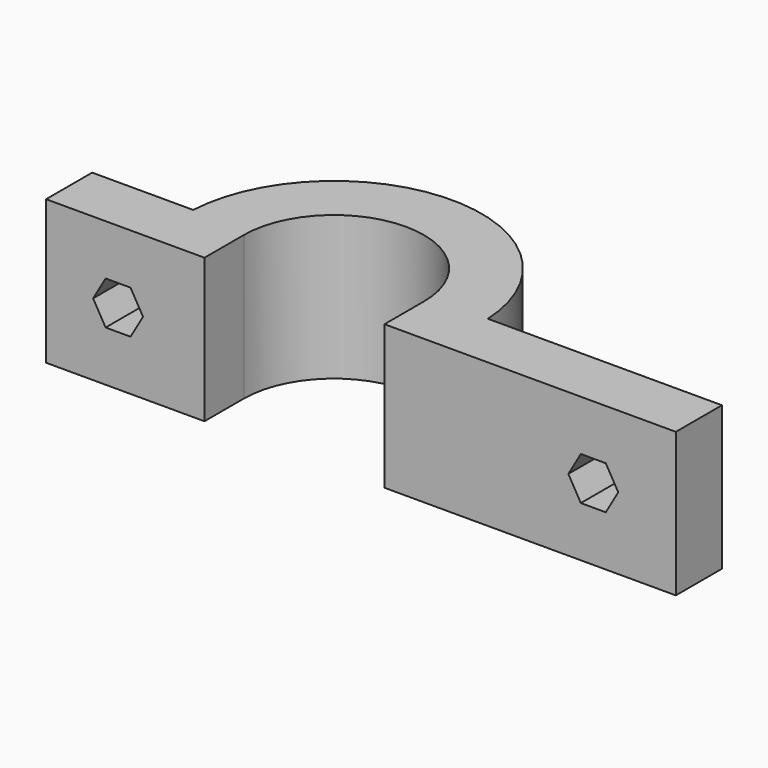
from build123d import *

# Parameters (mm, degrees)
F1_DEPTH = 10
F3_DEPTH = 13.6785106988
F4_DEPTH = 3.268


with BuildPart() as f1:
    # F0 (on Top) → F1 (new body)
    with BuildSketch(Plane.XY):
        with BuildLine():
            Line((14.6115271971, -9.8928403326), (14.6115271971, -13.3118403326))
            Line((14.6115271971, -13.3118403326), (38.1115271971, -13.3118403326))
            Line((38.1115271971, -13.3118403326), (38.1115271971, -9.3118403326))
            Line((38.1115271971, -9.3118403326), (18.5955271971, -9.3118403326))
            ThreePointArc((18.5955271971, -9.3118403326), (8.3615271971, 0.3656703662), (-1.8724728029, -9.3118403326))
            Line((-1.8724728029, -9.3118403326), (-8.8884728029, -9.3118403326))
            Line((-8.8884728029, -9.3118403326), (-8.8884728029, -13.3118403326))
            Line((-8.8884728029, -13.3118403326), (2.1115271971, -13.3118403326))
            Line((2.1115271971, -13.3118403326), (2.1115271971, -9.8928403326))
            ThreePointArc((2.1115271971, -9.8928403326), (8.3615271971, -3.6428403326), (14.6115271971, -9.8928403326))
        make_face()
    extrude(amount=F1_DEPTH)

    # F2 (on face) → F3 (cut, through all)
    with BuildSketch(Plane.XZ.offset(13.3118403326)):
        Polygon((-2.1564728029, 5), (-3.0224728029, 6.4999559994), (-4.7544728029, 6.4999559994), (-5.6204728029, 5), (-4.7544728029, 3.5000440006), (-3.0224728029, 3.5000440006), align=None)
        Polygon((29.9775271971, 6.4999559994), (28.2455271971, 6.4999559994), (27.3795271971, 5), (28.2455271971, 3.5000440006), (29.9775271971, 3.5000440006), (30.8435271971, 5), align=None)
    extrude(amount=-F3_DEPTH, mode=Mode.SUBTRACT)

    # F4 (cut): a face of the model
    f4_faces = [f1.faces().sort_by_distance(p)[0] for p in [
        (38.1115271971, -11.3118403326, 5),
    ]]
    extrude(f4_faces, amount=-F4_DEPTH, mode=Mode.SUBTRACT)


solid = f1.part
